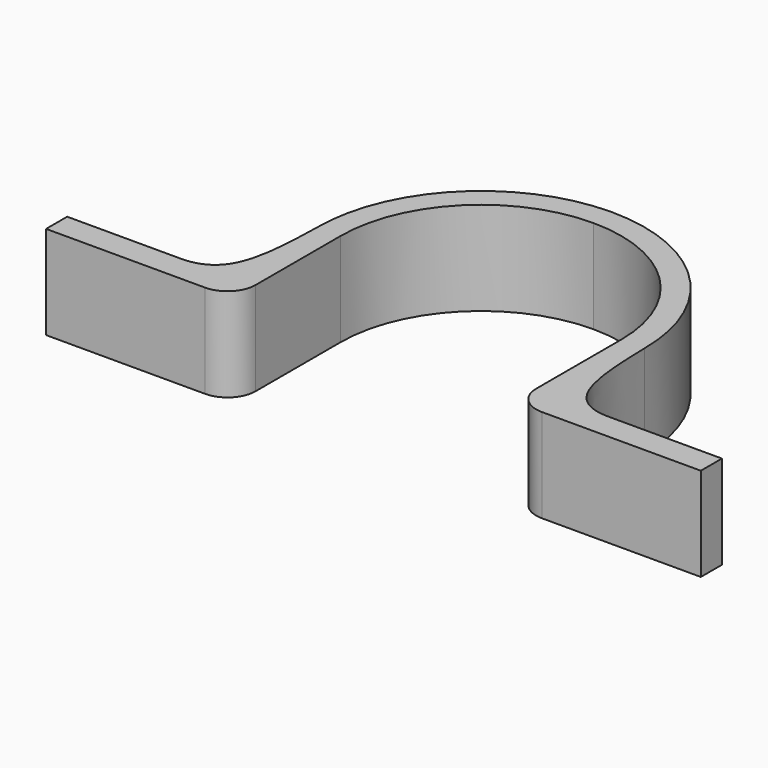
from build123d import *

# Parameters (mm, degrees)
F1_DEPTH = 12.7


with BuildPart() as f1:
    # F0 (on Top) → F1 (new body)
    with BuildSketch(Plane.XY):
        with BuildLine():
            ThreePointArc((0, 19.05), (13.470384, 13.470384), (19.05, 0))
            Line((19.05, 0), (19.05, -14.44625))
            ThreePointArc((19.05, -14.44625), (20.165923, -17.140327), (22.86, -18.25625))
            Line((22.86, -18.25625), (44.45, -18.25625))
            Line((44.45, -18.25625), (44.45, -14.675071))
            Line((44.45, -14.675071), (28.770535, -14.675071))
            add(Edge.make_bspline(
                [(22.225, 0), (22.447722, -8.768542), (22.86, -14.44625), (28.770535, -14.675071)],
                knots=[0, 0, 0, 0, 16.068657, 16.068657, 16.068657, 16.068657], degree=3))
            ThreePointArc((22.225, 0), (15.715448, 15.715448), (0, 22.225))
            ThreePointArc((0, 22.225), (-15.715448, 15.715448), (-22.225, 0))
            add(Edge.make_bspline(
                [(-22.225, 0), (-22.447722, -8.768542), (-22.86, -14.44625), (-28.770535, -14.675071)],
                knots=[0, 0, 0, 0, 16.068657, 16.068657, 16.068657, 16.068657], degree=3))
            Line((-28.770535, -14.675071), (-44.45, -14.675071))
            Line((-44.45, -14.675071), (-44.45, -18.25625))
            Line((-44.45, -18.25625), (-22.86, -18.25625))
            ThreePointArc((-22.86, -18.25625), (-20.165923, -17.140327), (-19.05, -14.44625))
            Line((-19.05, -14.44625), (-19.05, 0))
            ThreePointArc((-19.05, 0), (-13.470384, 13.470384), (0, 19.05))
        make_face()
    extrude(amount=F1_DEPTH)


solid = f1.part
